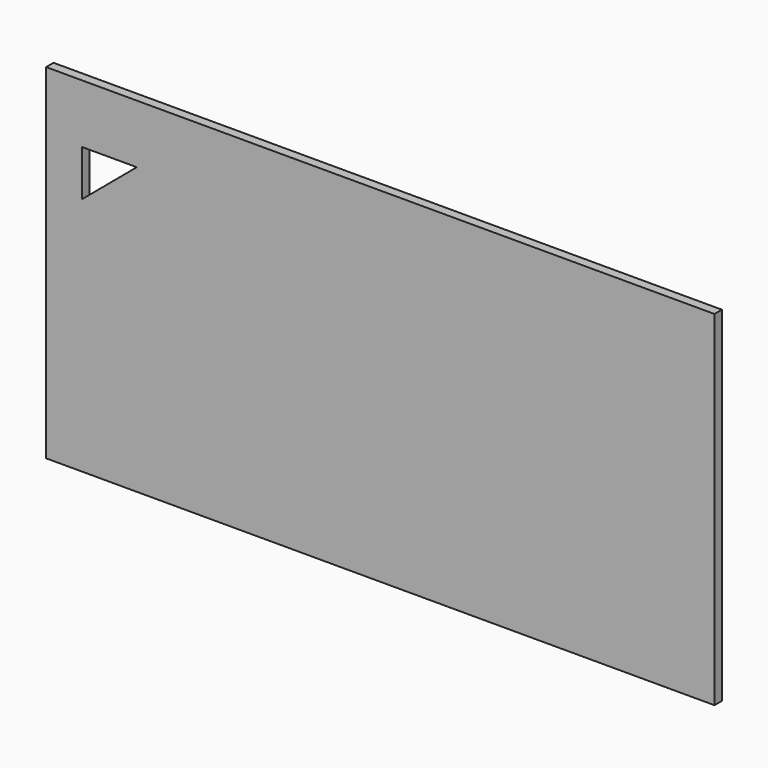
from build123d import *

# Parameters (mm, degrees)
F0_W     = 1795
F0_H     = 925
F1_DEPTH = 25
F3_DEPTH = 25


with BuildPart() as f1:
    # F0 (on Front) → F1 (new body)
    with BuildSketch(Plane.XZ):
        Rectangle(F0_W, F0_H)
    extrude(amount=F1_DEPTH)

    # F2 (on face) → F3 (cut, through all)
    with BuildSketch(Plane(origin=(0, 0, 0), x_dir=(-1, 0, 0), z_dir=(0, 1, 0))):
        Polygon((801.387787, 304.96937), (653.980017, 304.96937), (801.387787, 181.166545), align=None)
    extrude(amount=-F3_DEPTH, mode=Mode.SUBTRACT)


solid = f1.part
